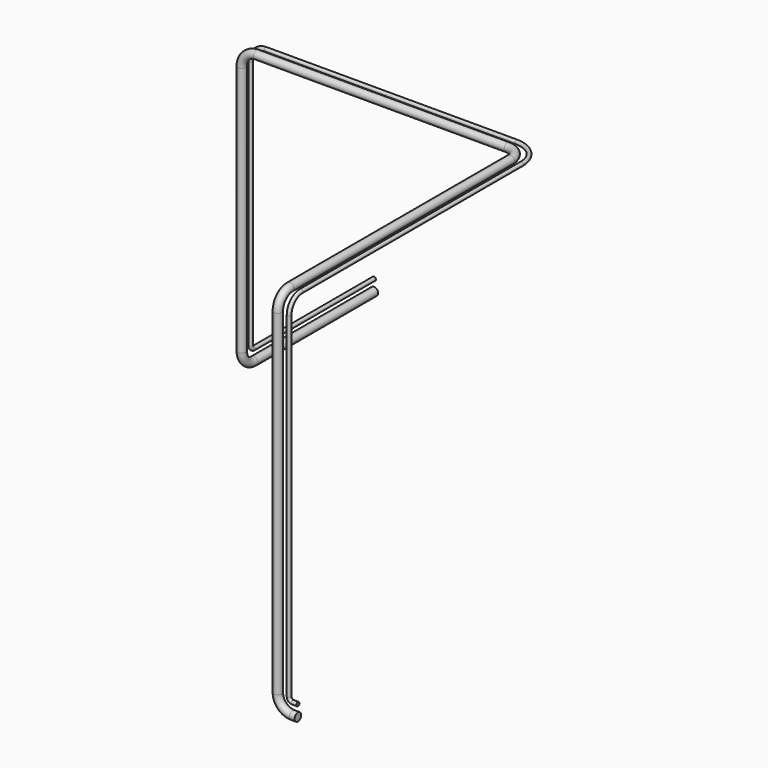
from build123d import *

# Parameters (mm, degrees)
F0_R   = 20.6375
F0_R_2 = 9.525


with BuildPart() as f10:
    # F10: sweep along a path in F1, F3, F5, F7, F9
    with BuildLine(Plane.XZ) as f10_path:
        Line((0, 0), (-25.4, 0))
        ThreePointArc((-25.4, 0), (-79.2815367264, 22.3184632736), (-101.6, 76.2))
        Line((-101.6, 76.2), (-101.6, 1778))
    with BuildLine(Plane.YZ.offset(-101.6)) as f10_path_2:
        ThreePointArc((0, 1778), (22.3184632736, 1831.8815367264), (76.2, 1854.2))
        Line((76.2, 1854.2), (1473.2, 1854.2))
    with BuildLine(Plane.XY.offset(1854.2)) as f10_path_3:
        ThreePointArc((-101.6, 1473.2), (-123.9184632736, 1527.0815367264), (-177.8, 1549.4))
        Line((-177.8, 1549.4), (-1447.8, 1549.4))
    with BuildLine(Plane.XZ.offset(-1549.4)) as f10_path_4:
        ThreePointArc((-1447.8, 1854.2), (-1501.6815367264, 1831.8815367264), (-1524, 1778))
        Line((-1524, 1778), (-1524, 508))
    with BuildLine(Plane.YZ.offset(-1524)) as f10_path_5:
        ThreePointArc((1549.4, 508), (1571.7184632736, 454.1184632736), (1625.6, 431.8))
        Line((1625.6, 431.8), (2387.6, 431.8))
    # F0 (on Right) → F10 (sweep)
    with BuildSketch(Plane.YZ):
        Circle(F0_R)
        with Locations((0, 57.15)):
            Circle(F0_R_2)
    sweep(path=f10_path.line + f10_path_2.line + f10_path_3.line + f10_path_4.line + f10_path_5.line)


solid = f10.part
